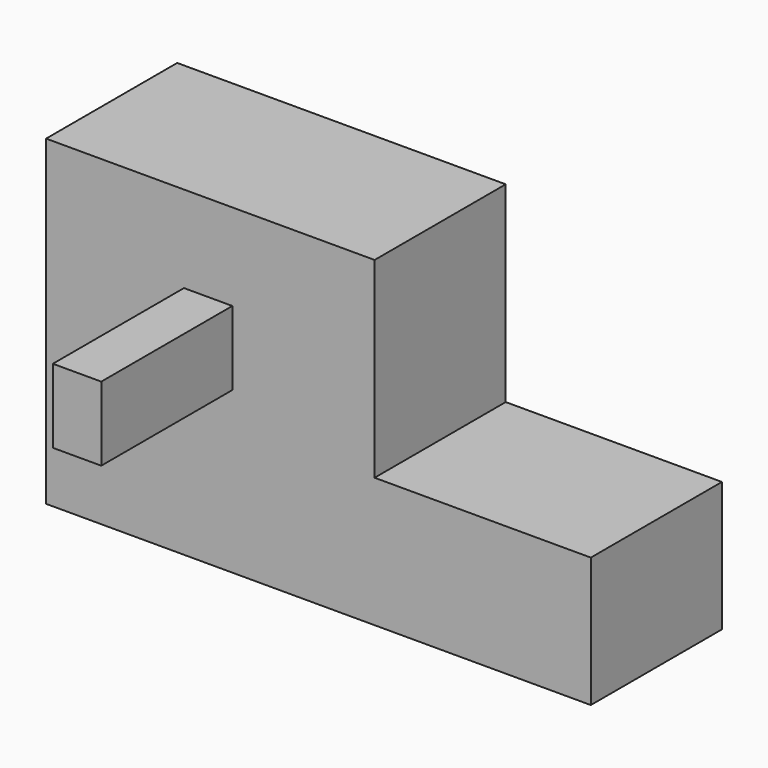
from build123d import *

# Parameters (mm, degrees)
F0_W     = 33.509679
F0_H     = 20.122174
F1_DEPTH = 25.4
F2_W     = 7.502383
F2_H     = 11.472215
F3_DEPTH = 25.4


with BuildPart() as f1:
    # F0 (on Front) → F1 (new body)
    with BuildSketch(Plane.XZ):
        Polygon((50.920263, 20.122174), (50.920263, 49.836073), (0, 49.836073), (0, 0), (50.920263, 0), align=None)
        with Locations((67.675102, 10.061087)):
            Rectangle(F0_W, F0_H)
    extrude(amount=F1_DEPTH)

    # F2 (on face) → F3 (join)
    with BuildSketch(Plane.XZ.offset(25.4)):
        with Locations((25.119858, 30.654144)):
            Rectangle(F2_W, F2_H)
    extrude(amount=F3_DEPTH)


solid = f1.part
